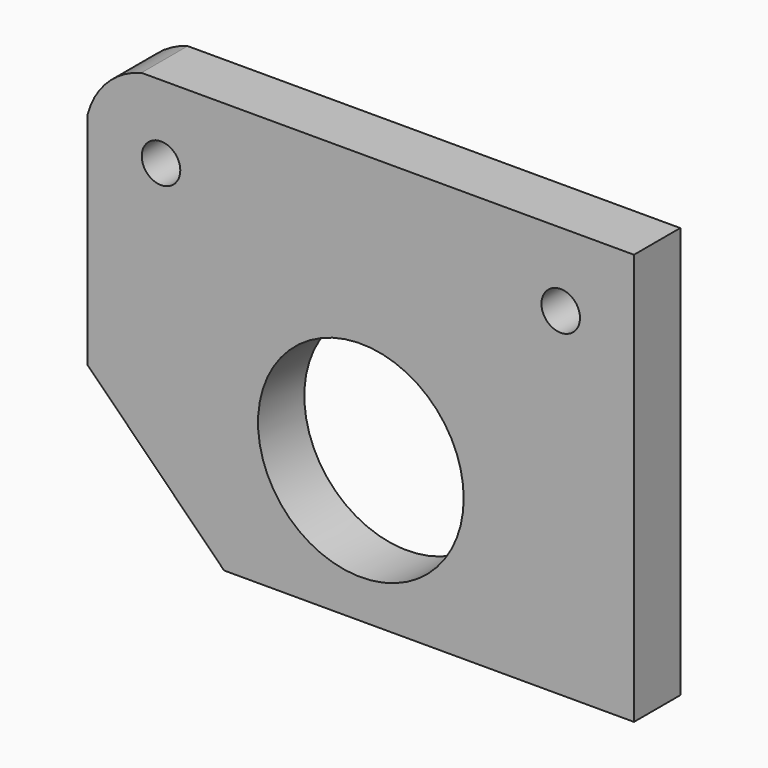
from build123d import *

# Parameters (mm, degrees)
F0_R     = 1.5
F0_R_2   = 8
F1_DEPTH = 4.5


with BuildPart() as f1:
    # F0 (on Front) → F1 (new body)
    with BuildSketch(Plane.XZ):
        with BuildLine():
            Line((11.6189500386, -16), (21.25, -16))
            Line((21.25, -16), (21.25, 16))
            Line((21.25, 16), (-14.0268453788, 16))
            ThreePointArc((-14.0268453788, 16), (-10.8704373995, 13.8932845514), (-9.65, 10.3))
            ThreePointArc((-9.65, 10.3), (-9.9420900065, 8.4666027422), (-10.7894391542, 6.8147366767))
            ThreePointArc((-10.7894391542, 6.8147366767), (11.4149058026, 6.2115978128), (11.6189500386, -16))
        make_face()
        with Locations((15.55, 10.3)):
            Circle(F0_R, mode=Mode.SUBTRACT)
        with BuildLine():
            ThreePointArc((-14.1218245477, -12.5215737345), (-15.8901817931, -3.1286041086), (-11.9880428927, 5.5965479097))
            ThreePointArc((-11.9880428927, 5.5965479097), (-17.4660845104, 4.7198010655), (-21.25, 8.7768453788))
            Line((-21.25, 8.7768453788), (-21.25, -5.3933982822))
            Line((-21.25, -5.3933982822), (-14.1218245477, -12.5215737345))
        make_face()
        with BuildLine():
            ThreePointArc((-11.9880428927, 5.5965479097), (-11.3443998956, 6.1620140452), (-10.7894391542, 6.8147366767))
            ThreePointArc((-10.7894391542, 6.8147366767), (-9.9420900065, 8.4666027422), (-9.65, 10.3))
            ThreePointArc((-9.65, 10.3), (-10.8704373995, 13.8932845514), (-14.0268453788, 16))
            Line((-14.0268453788, 16), (-17.0731546212, 16))
            ThreePointArc((-17.0731546212, 16), (-19.721930009, 14.471930009), (-21.25, 11.8231546212))
            Line((-21.25, 11.8231546212), (-21.25, 8.7768453788))
            ThreePointArc((-21.25, 8.7768453788), (-17.4660845104, 4.7198010655), (-11.9880428927, 5.5965479097))
        make_face()
        with Locations((-15.55, 10.3)):
            Circle(F0_R, mode=Mode.SUBTRACT)
        with BuildLine():
            Line((4.7958315233, -16), (11.6189500386, -16))
            ThreePointArc((11.6189500386, -16), (11.4149058026, 6.2115978128), (-10.7894391542, 6.8147366767))
            ThreePointArc((-10.7894391542, 6.8147366767), (-11.3443998956, 6.1620140452), (-11.9880428927, 5.5965479097))
            ThreePointArc((-11.9880428927, 5.5965479097), (-15.8901817931, -3.1286041086), (-14.1218245477, -12.5215737345))
            Line((-14.1218245477, -12.5215737345), (-10.6433982822, -16))
            Line((-10.6433982822, -16), (-4.7958315233, -16))
            ThreePointArc((-4.7958315233, -16), (0, 7), (4.7958315233, -16))
        make_face()
        with BuildLine():
            Line((-4.7958315233, -16), (4.7958315233, -16))
            ThreePointArc((4.7958315233, -16), (0, 7), (-4.7958315233, -16))
        make_face()
        with Locations((0, -5)):
            Circle(F0_R_2, mode=Mode.SUBTRACT)
    extrude(amount=F1_DEPTH)


solid = f1.part
